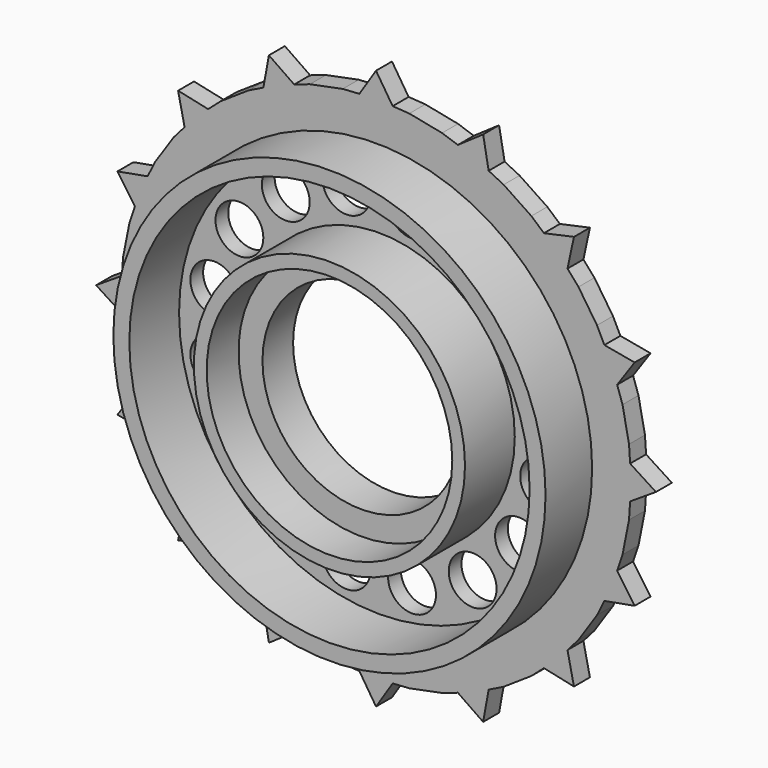
from build123d import *

# Parameters (mm, degrees)
F0_R     = 13.55
F1_DEPTH = 1.25
F0_R_2   = 12.55
F2_DEPTH = 4.9
F0_R_3   = 1.5
F0_R_4   = 8.5
F3_DEPTH = 1
F0_R_5   = 7.7
F4_DEPTH = 4.9
F5_R     = 7.7
F5_R_2   = 6.2
F6_DEPTH = 2.4


with BuildPart() as f1:
    # F0 (on Front) → F1 (new body)
    with BuildSketch(Plane.XZ):
        Polygon((4.141105, 15.454813), (2.088419, 15.863118), (1.04421, 15.931559), (0, 17.55), (-1.04421, 15.931559), (-2.088419, 15.863118), (-4.141105, 15.454813), (-5.13202, 15.118443), (-6.716094, 16.214086), (-7.061467, 14.319239), (-8, 13.856406), (-9.740183, 12.693653), (-10.526946, 12.003681), (-12.409724, 12.409724), (-12.003681, 10.526946), (-12.693653, 9.740183), (-13.856406, 8), (-14.319239, 7.061467), (-16.214086, 6.716094), (-15.118443, 5.13202), (-15.454813, 4.141105), (-15.863118, 2.088419), (-15.931559, 1.04421), (-17.55, 0), (-15.931559, -1.04421), (-15.863118, -2.088419), (-15.454813, -4.141105), (-15.118443, -5.13202), (-16.214086, -6.716094), (-14.319239, -7.061467), (-13.856406, -8), (-12.693653, -9.740183), (-12.003681, -10.526946), (-12.409724, -12.409724), (-10.526946, -12.003681), (-9.740183, -12.693653), (-8, -13.856406), (-7.061467, -14.319239), (-6.716094, -16.214086), (-5.13202, -15.118443), (-4.141105, -15.454813), (-2.088419, -15.863118), (-1.04421, -15.931559), (0, -17.55), (1.04421, -15.931559), (2.088419, -15.863118), (4.141105, -15.454813), (5.13202, -15.118443), (6.716094, -16.214086), (7.061467, -14.319239), (8, -13.856406), (9.740183, -12.693653), (10.526946, -12.003681), (12.409724, -12.409724), (12.003681, -10.526946), (12.693653, -9.740183), (13.856406, -8), (14.319239, -7.061467), (16.214086, -6.716094), (15.118443, -5.13202), (15.454813, -4.141105), (15.863118, -2.088419), (15.931559, -1.04421), (17.55, 0), (15.931559, 1.04421), (15.863118, 2.088419), (15.454813, 4.141105), (15.118443, 5.13202), (16.214086, 6.716094), (14.319239, 7.061467), (13.856406, 8), (12.693653, 9.740183), (12.003681, 10.526946), (12.409724, 12.409724), (10.526946, 12.003681), (9.740183, 12.693653), (8, 13.856406), (7.061467, 14.319239), (6.716094, 16.214086), (5.13202, 15.118443), align=None)
        Circle(F0_R, mode=Mode.SUBTRACT)
    extrude(amount=F1_DEPTH)

    # F0 (on Front) → F2 (join)
    with BuildSketch(Plane.XZ):
        Circle(F0_R)
        Circle(F0_R_2, mode=Mode.SUBTRACT)
    extrude(amount=F2_DEPTH)

    # F0 (on Front) → F3 (join)
    with BuildSketch(Plane.XZ):
        Circle(F0_R_2)
        with Locations((-2.056837, -10.340419)):
            Circle(F0_R_3, mode=Mode.SUBTRACT)
        with Locations((-10.340419, -2.056837)):
            Circle(F0_R_3, mode=Mode.SUBTRACT)
        with Locations((-5.857377, -8.766184)):
            Circle(F0_R_3, mode=Mode.SUBTRACT)
        with Locations((-8.766184, -5.857377)):
            Circle(F0_R_3, mode=Mode.SUBTRACT)
        with Locations((2.056837, -10.340419)):
            Circle(F0_R_3, mode=Mode.SUBTRACT)
        with Locations((5.857377, -8.766184)):
            Circle(F0_R_3, mode=Mode.SUBTRACT)
        with Locations((8.766184, -5.857377)):
            Circle(F0_R_3, mode=Mode.SUBTRACT)
        with Locations((10.340419, -2.056837)):
            Circle(F0_R_3, mode=Mode.SUBTRACT)
        with Locations((-10.340419, 2.056837)):
            Circle(F0_R_3, mode=Mode.SUBTRACT)
        with Locations((-8.766184, 5.857377)):
            Circle(F0_R_3, mode=Mode.SUBTRACT)
        with Locations((-5.857377, 8.766184)):
            Circle(F0_R_3, mode=Mode.SUBTRACT)
        with Locations((-2.056837, 10.340419)):
            Circle(F0_R_3, mode=Mode.SUBTRACT)
        Circle(F0_R_4, mode=Mode.SUBTRACT)
        with Locations((8.766184, 5.857377)):
            Circle(F0_R_3, mode=Mode.SUBTRACT)
        with Locations((5.857377, 8.766184)):
            Circle(F0_R_3, mode=Mode.SUBTRACT)
        with Locations((10.340419, 2.056837)):
            Circle(F0_R_3, mode=Mode.SUBTRACT)
        with Locations((2.056837, 10.340419)):
            Circle(F0_R_3, mode=Mode.SUBTRACT)
    extrude(amount=F3_DEPTH)

    # F0 (on Front) → F4 (join)
    with BuildSketch(Plane.XZ):
        Circle(F0_R_4)
        Circle(F0_R_5, mode=Mode.SUBTRACT)
    extrude(amount=F4_DEPTH)

    # F5 (on face) → F6 (join)
    with BuildSketch(Plane(origin=(0, 0, 0), x_dir=(-1, 0, 0), z_dir=(0, 1, 0))):
        Circle(F5_R)
        Circle(F5_R_2, mode=Mode.SUBTRACT)
    extrude(amount=-F6_DEPTH)


solid = f1.part
